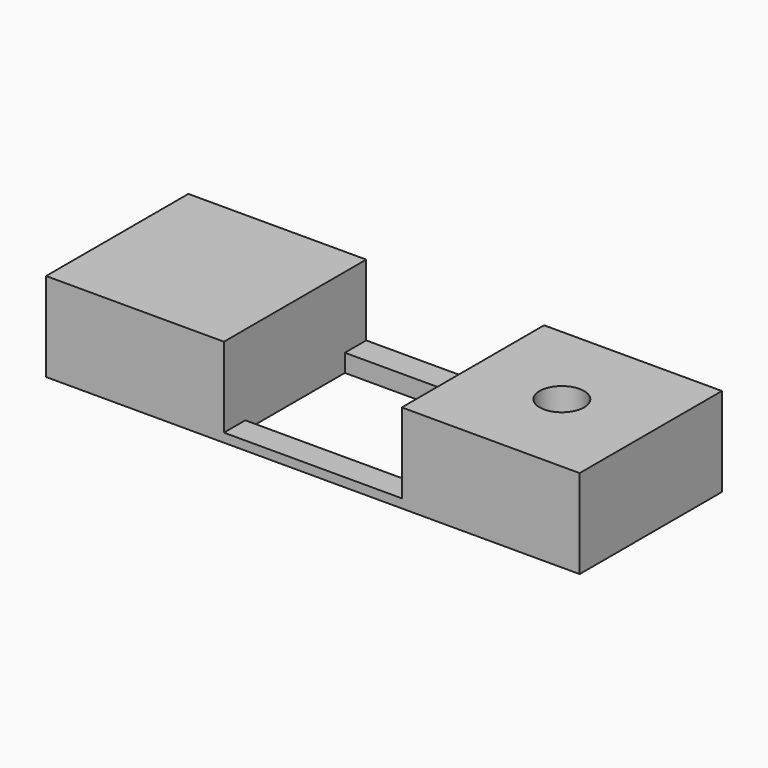
from build123d import *

# Parameters (mm, degrees)
F0_W     = 20
F0_H     = 20
F0_R     = 2.5
F1_DEPTH = 10
F2_W     = 3
F2_H     = 1
F2_H_2   = 2
F3_DEPTH = 60


with BuildPart() as f1:
    # F0 (on Top) → F1 (new body)
    with BuildSketch(Plane.XY):
        with Locations((-10, 10)):
            Rectangle(F0_W, F0_H)
        with Locations((30, 10)):
            Rectangle(F0_W, F0_H)
        with Locations((30, 10)):
            Circle(F0_R, mode=Mode.SUBTRACT)
    extrude(amount=F1_DEPTH)

    # F2 (on face) → F3 (join)
    with BuildSketch(Plane.YZ.offset(40)):
        with Locations((1.5, 0.5)):
            Rectangle(F2_W, F2_H)
        with Locations((18.5, 1)):
            Rectangle(F2_W, F2_H_2)
    extrude(amount=-F3_DEPTH)


solid = f1.part
